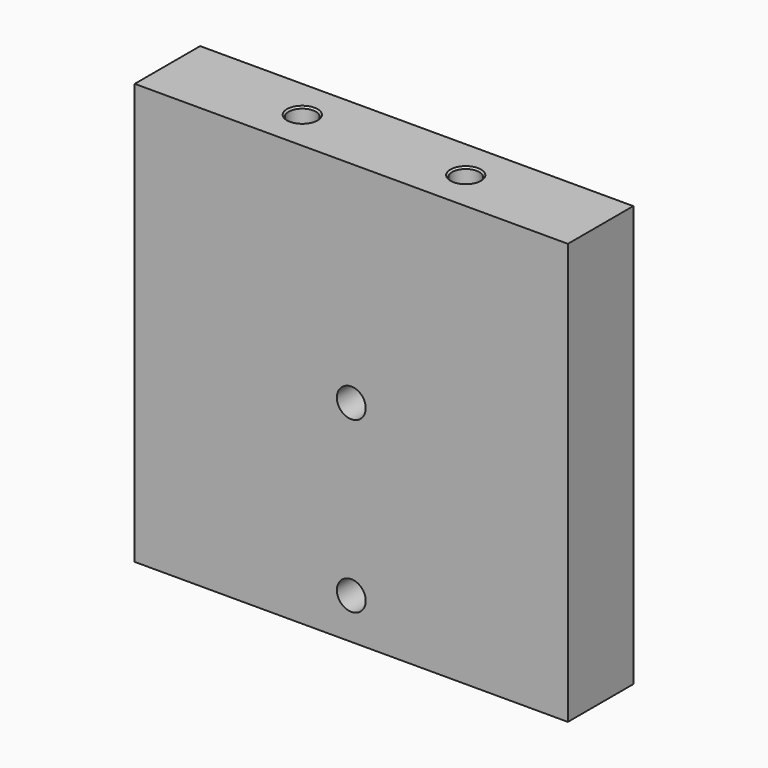
from build123d import *

# Parameters (mm, degrees)
F0_W           = 201.93
F0_H           = 196.215
F0_R           = 10.16
F0_R_2         = 6.604
F1_DEPTH       = 38.1
F2_D           = 13.462
F2_DEPTH       = 50.8
F2_CBORE_D     = 20.32
F2_CBORE_DEPTH = 15.875
F2_TIP         = 4.0443928267
F3_ANGLE       = -90
F5_D           = 12.7
F5_DEPTH       = 34.925
F5_CSINK_D     = 14.2875
F5_CSINK_ANGLE = 90
F5_TIP         = 3.8154649308


with BuildPart() as f1:
    # F0 (on Top) → F1 (new body)
    with BuildSketch(Plane.XY):
        with Locations((754.8313072, 347.5162722)):
            Rectangle(F0_W, F0_H)
        with Locations((754.8313072, 268.4587722)):
            Circle(F0_R, mode=Mode.SUBTRACT)
        with Locations((754.8313072, 347.5162722)):
            Circle(F0_R, mode=Mode.SUBTRACT)
        with Locations((754.8313072, 426.5737722)):
            Circle(F0_R, mode=Mode.SUBTRACT)
        with Locations((754.8313072, 426.5737722)):
            Circle(F0_R)
        with Locations((754.8313072, 426.5737722)):
            Circle(F0_R_2, mode=Mode.SUBTRACT)
        with Locations((754.8313072, 347.5162722)):
            Circle(F0_R)
        with Locations((754.8313072, 347.5162722)):
            Circle(F0_R_2, mode=Mode.SUBTRACT)
        with Locations((754.8313072, 347.5162722)):
            Circle(F0_R_2)
        with Locations((754.8313072, 426.5737722)):
            Circle(F0_R_2)
        with Locations((754.8313072, 268.4587722)):
            Circle(F0_R)
        with Locations((754.8313072, 268.4587722)):
            Circle(F0_R_2, mode=Mode.SUBTRACT)
        with Locations((754.8313072, 268.4587722)):
            Circle(F0_R_2)
    extrude(amount=-F1_DEPTH)

    # F2
    with Locations(Plane.XY):
        with Locations((754.8313072, 426.5737722), (754.8313072, 347.5162722)):
            CounterBoreHole(F2_D / 2, F2_CBORE_D / 2, F2_CBORE_DEPTH, depth=F2_DEPTH)
            with Locations((0, 0, -(F2_DEPTH + F2_TIP / 2))):  # 118° drill point
                Cone(0, F2_D / 2, F2_TIP, mode=Mode.SUBTRACT)


with BuildPart() as f1_1:
    # F3: moved
    add(f1.part.rotate(Axis((754.8313072, 249.4087722, 0), (1, 0, 0)), F3_ANGLE))


with BuildPart() as f1_2:
    # F4: moved
    add(f1_1.part.moved(Location((0, -50.8, 0))))

    # F5
    with Locations(Plane.XY):
        with Locations((716.7313072, 179.5587722), (792.9313072, 179.5587722)):
            CounterSinkHole(F5_D / 2, F5_CSINK_D / 2, depth=F5_DEPTH, counter_sink_angle=F5_CSINK_ANGLE)
            with Locations((0, 0, -(F5_DEPTH + F5_TIP / 2))):  # 118° drill point
                Cone(0, F5_D / 2, F5_TIP, mode=Mode.SUBTRACT)


solid = f1_2.part
